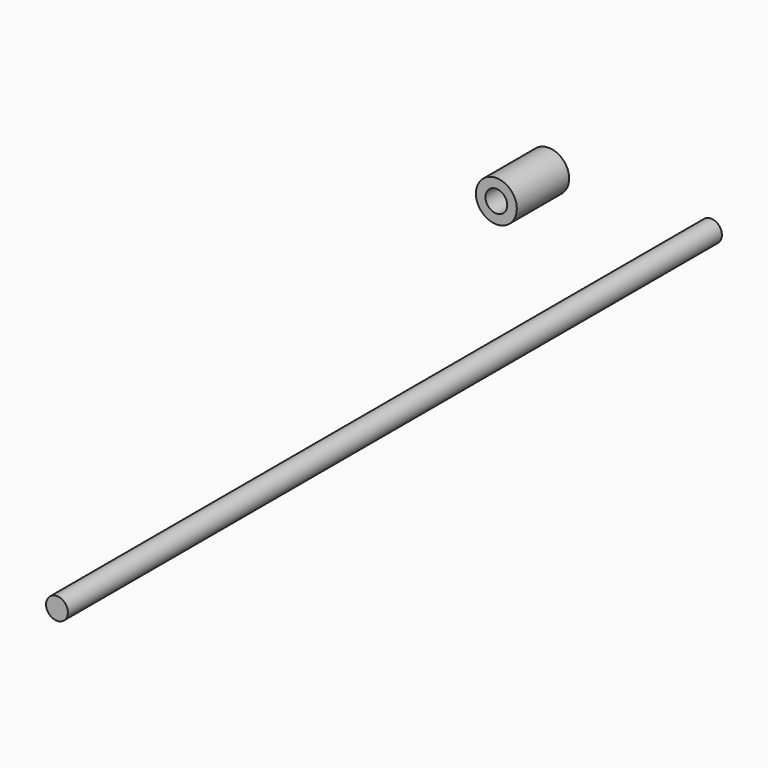
from build123d import *

# Parameters (mm, degrees)
F0_R     = 7.5
F0_R_2   = 4
F1_DEPTH = 24
F2_DEPTH = 300


with BuildPart() as f1:
    # F0 (on Front) → F1 (new body)
    with BuildSketch(Plane.XZ):
        with Locations((-31.436492, 0)):
            Circle(F0_R)
        with Locations((-31.436492, 0)):
            Circle(F0_R_2, mode=Mode.SUBTRACT)
    extrude(amount=F1_DEPTH)


with BuildPart() as f2:
    # F0 (on Front) → F2 (new body)
    with BuildSketch(Plane.XZ):
        with Locations((28.128557, 0)):
            Circle(F0_R_2)
    extrude(amount=F2_DEPTH)


solid = Compound([f1.part, f2.part])
